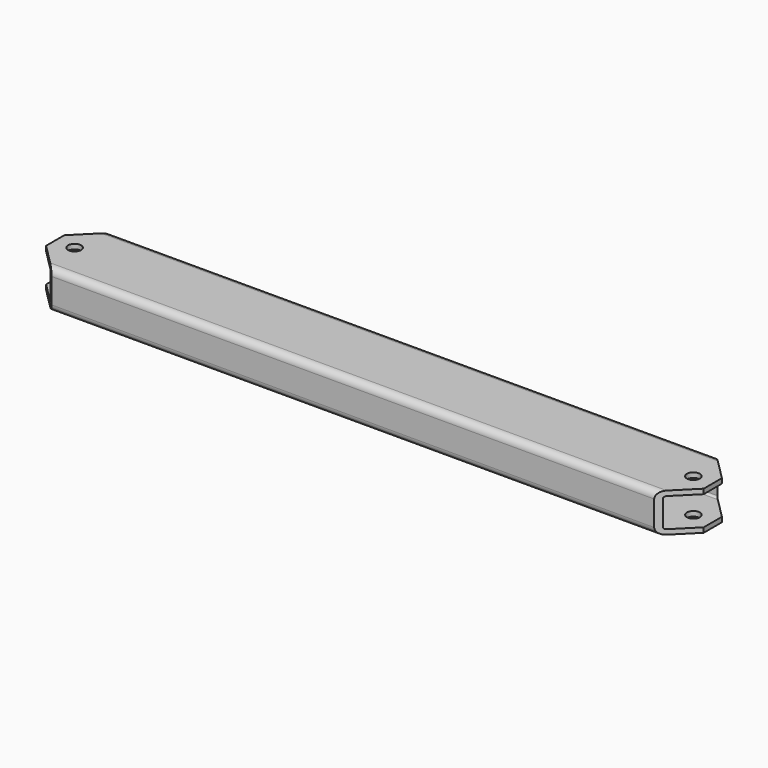
from build123d import *

# Parameters (mm, degrees)
F1_DEPTH = 644.525
F2_R     = 12.7635
F3_DEPTH = 76.201


with BuildPart() as f1:
    # F0 (on Right) → F1 (new body, symmetric)
    with BuildSketch(Plane.YZ):
        with BuildLine():
            Line((62.6745, 38.1), (-62.6745, 38.1))
            ThreePointArc((-62.6745, 38.1), (-72.238473, 34.138473), (-76.2, 24.5745))
            Line((-76.2, 24.5745), (-76.2, -24.5745))
            ThreePointArc((-76.2, -24.5745), (-72.238473, -34.138473), (-62.6745, -38.1))
            Line((-62.6745, -38.1), (62.6745, -38.1))
            ThreePointArc((62.6745, -38.1), (72.238473, -34.138473), (76.2, -24.5745))
            Line((76.2, -24.5745), (76.2, 24.5745))
            ThreePointArc((76.2, 24.5745), (72.238473, 34.138473), (62.6745, 38.1))
        make_face()
        with BuildLine():
            Line((62.6745, -28.575), (-62.6745, -28.575))
            ThreePointArc((-62.6745, -28.575), (-65.503281, -27.403281), (-66.675, -24.5745))
            Line((-66.675, -24.5745), (-66.675, 24.5745))
            ThreePointArc((-66.675, 24.5745), (-65.503281, 27.403281), (-62.6745, 28.575))
            Line((-62.6745, 28.575), (62.6745, 28.575))
            ThreePointArc((62.6745, 28.575), (65.503281, 27.403281), (66.675, 24.5745))
            Line((66.675, 24.5745), (66.675, -24.5745))
            ThreePointArc((66.675, -24.5745), (65.503281, -27.403281), (62.6745, -28.575))
        make_face(mode=Mode.SUBTRACT)
    extrude(amount=F1_DEPTH, both=True)

    # F2 (on face) → F3 (cut, through all)
    with BuildSketch(Plane.XY.offset(38.1)):
        with Locations((-606.425, 0)):
            Circle(F2_R)
        with Locations((606.425, 0)):
            Circle(F2_R)
        Polygon((-644.525, 62.6745), (-604.2025, 62.6745), (-590.677, 76.2), (-644.525, 76.2), align=None)
        Polygon((-590.677, -76.2), (-604.2025, -62.6745), (-644.525, -62.6745), (-644.525, -76.2), align=None)
        Polygon((590.677, 76.2), (604.2025, 62.6745), (644.525, 62.6745), (644.525, 76.2), align=None)
        Polygon((644.525, -62.6745), (604.2025, -62.6745), (590.677, -76.2), (644.525, -76.2), align=None)
        Polygon((644.525, 62.6745), (604.2025, 62.6745), (644.525, 22.352), align=None)
        Polygon((644.525, -22.352), (604.2025, -62.6745), (644.525, -62.6745), align=None)
        Polygon((-604.2025, -62.6745), (-644.525, -22.352), (-644.525, -62.6745), align=None)
        Polygon((-644.525, 62.6745), (-644.525, 22.352), (-604.2025, 62.6745), align=None)
    extrude(amount=-F3_DEPTH, mode=Mode.SUBTRACT)


solid = f1.part
